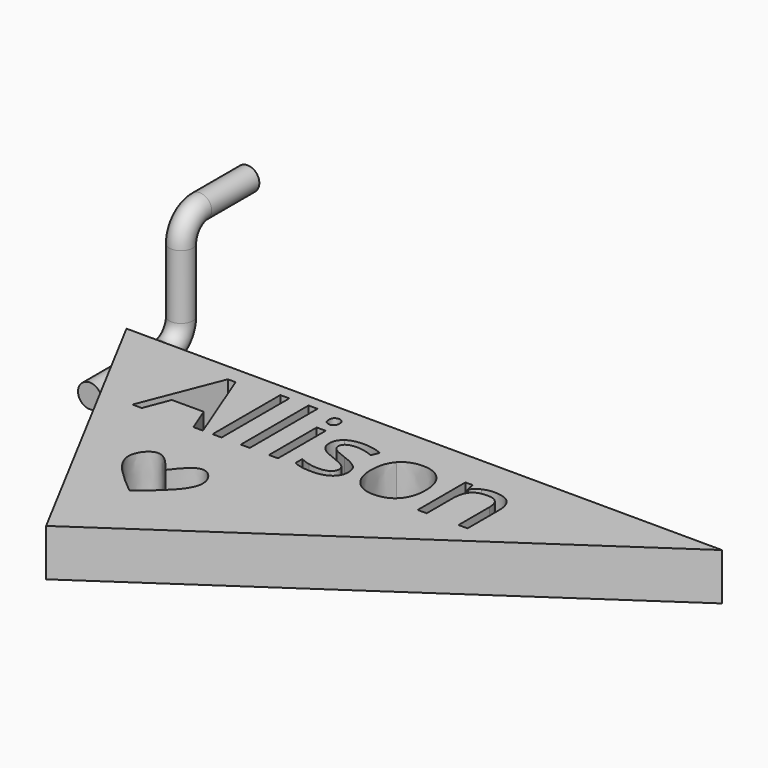
from build123d import *

# Parameters (mm, degrees)
F1_R     = 6.379673691
F3_W     = 4.8832285095
F3_H     = 45.7555688669
F3_H_2   = 32.2255445958
F4_DEPTH = 25.4
F6_DEPTH = 25.4


with BuildPart() as f2:
    # F2: sweep along a path in F0
    with BuildLine(Plane.YZ) as f2_path:
        Line((0, 0), (48.8668594837, 0))
        ThreePointArc((48.8668594837, 0), (57.8471156048, 3.7197438789), (61.5668594837, 12.7))
        Line((61.5668594837, 12.7), (61.5668594837, 47.304409945))
        ThreePointArc((61.5668594837, 47.304409945), (65.2866033626, 56.2846660661), (74.2668594837, 60.004409945))
        Line((74.2668594837, 60.004409945), (106.4591375947, 60.004409945))
    # F1 (on Front) → F2 (sweep)
    with BuildSketch(Plane.XZ):
        Circle(F1_R)
    sweep(path=f2_path.line)

    # F3 (on Top) → F4 (join)
    with BuildSketch(Plane.XY):
        Polygon((326.6327083111, 18.4751711786), (4.1886316997, 19.5212387724), (90.2807963532, -142.4016799862), align=None)
        Polygon((87.5756415589, -33.0956764519), (82.4007365874, -33.0956764519), (77.0470621713, -19.4245184088), (59.819333075, -19.4245184088), (54.5315210859, -33.0956764519), (49.4695231318, -33.0956764519), (66.4620292749, 10.0724399292), (70.6678156791, 10.0724399292), align=None, mode=Mode.SUBTRACT)
        with Locations((95.1921607853, -10.2178920185)):
            Rectangle(F3_W, F3_H, mode=Mode.SUBTRACT)
        with Locations((110.425199238, -10.2178920185)):
            Rectangle(F3_W, F3_H, mode=Mode.SUBTRACT)
        with Locations((125.6582376907, -16.982904154)):
            Rectangle(F3_W, F3_H_2, mode=Mode.SUBTRACT)
        with BuildLine():
            add(Edge.make_bspline(
                [(157.2204535583, -18.9822992567), (159.2339620381, -21.099305836), (159.2339620381, -24.3077469184)],
                knots=[0, 0, 0, 1, 1, 1], degree=2))
            add(Edge.make_bspline(
                [(159.2339620381, -24.3077469184), (159.2339620381, -28.8052097846), (155.8843871838, -31.2468240393)],
                knots=[0, 0, 0, 1, 1, 1], degree=2))
            add(Edge.make_bspline(
                [(155.8843871838, -31.2468240393), (152.5348123295, -33.6884382941), (146.4754690537, -33.6884382941)],
                knots=[0, 0, 0, 1, 1, 1], degree=2))
            add(Edge.make_bspline(
                [(146.4754690537, -33.6884382941), (140.067995807, -33.6884382941), (136.4831979994, -31.656111978)],
                knots=[0, 0, 0, 1, 1, 1], degree=2))
            Line((136.4831979994, -31.656111978), (136.4831979994, -27.1304223574))
            add(Edge.make_bspline(
                [(136.4831979994, -27.1304223574), (138.8072007776, -28.3065371237), (141.4652201494, -28.97927477)],
                knots=[0, 0, 0, 1, 1, 1], degree=2))
            add(Edge.make_bspline(
                [(141.4652201494, -28.97927477), (144.1232395211, -29.6520124163), (146.5977849894, -29.6520124163)],
                knots=[0, 0, 0, 1, 1, 1], degree=2))
            add(Edge.make_bspline(
                [(146.5977849894, -29.6520124163), (150.4178057502, -29.6520124163), (152.4736543616, -28.4335575184)],
                knots=[0, 0, 0, 1, 1, 1], degree=2))
            add(Edge.make_bspline(
                [(152.4736543616, -28.4335575184), (154.5295029731, -27.2151026206), (154.5295029731, -24.712330398)],
                knots=[0, 0, 0, 1, 1, 1], degree=2))
            add(Edge.make_bspline(
                [(154.5295029731, -24.712330398), (154.5295029731, -22.8305467719), (152.9017601366, -21.4944803975)],
                knots=[0, 0, 0, 1, 1, 1], degree=2))
            add(Edge.make_bspline(
                [(152.9017601366, -21.4944803975), (151.2740173, -20.158414023), (146.5319225624, -18.3330839057)],
                knots=[0, 0, 0, 1, 1, 1], degree=2))
            add(Edge.make_bspline(
                [(146.5319225624, -18.3330839057), (142.0344596962, -16.6582964786), (140.138562693, -15.4069103672)],
                knots=[0, 0, 0, 1, 1, 1], degree=2))
            add(Edge.make_bspline(
                [(140.138562693, -15.4069103672), (138.2426656898, -14.1555242559), (137.315887254, -12.570121551)],
                knots=[0, 0, 0, 1, 1, 1], degree=2))
            add(Edge.make_bspline(
                [(137.315887254, -12.570121551), (136.3891088181, -10.9847188461), (136.3891088181, -8.7830320036)],
                knots=[0, 0, 0, 1, 1, 1], degree=2))
            add(Edge.make_bspline(
                [(136.3891088181, -8.7830320036), (136.3891088181, -4.8406953071), (139.5975499005, -2.5590326605)],
                knots=[0, 0, 0, 1, 1, 1], degree=2))
            add(Edge.make_bspline(
                [(139.5975499005, -2.5590326605), (142.8059909829, -0.277370014), (148.3854794341, -0.277370014)],
                knots=[0, 0, 0, 1, 1, 1], degree=2))
            add(Edge.make_bspline(
                [(148.3854794341, -0.277370014), (153.5886111601, -0.277370014), (158.5659288509, -2.3943765933)],
                knots=[0, 0, 0, 1, 1, 1], degree=2))
            Line((158.5659288509, -2.3943765933), (156.8252789968, -6.3649400442))
            add(Edge.make_bspline(
                [(156.8252789968, -6.3649400442), (151.9796861598, -4.3702494006), (148.0373494633, -4.3702494006)],
                knots=[0, 0, 0, 1, 1, 1], degree=2))
            add(Edge.make_bspline(
                [(148.0373494633, -4.3702494006), (144.5654586732, -4.3702494006), (142.8012865238, -5.4569794446)],
                knots=[0, 0, 0, 1, 1, 1], degree=2))
            add(Edge.make_bspline(
                [(142.8012865238, -5.4569794446), (141.0371143744, -6.5437094886), (141.0371143744, -8.4537198691)],
                knots=[0, 0, 0, 1, 1, 1], degree=2))
            add(Edge.make_bspline(
                [(141.0371143744, -8.4537198691), (141.0371143744, -9.752150571), (141.7004431026, -10.6601111706)],
                knots=[0, 0, 0, 1, 1, 1], degree=2))
            add(Edge.make_bspline(
                [(141.7004431026, -10.6601111706), (142.3637718308, -11.5680717701), (143.8315630591, -12.3913521065)],
                knots=[0, 0, 0, 1, 1, 1], degree=2))
            add(Edge.make_bspline(
                [(143.8315630591, -12.3913521065), (145.2993542874, -13.2146324429), (149.4769139372, -14.7765128525)],
                knots=[0, 0, 0, 1, 1, 1], degree=2))
            add(Edge.make_bspline(
                [(149.4769139372, -14.7765128525), (155.2069450784, -16.8652926774), (157.2204535583, -18.9822992567)],
                knots=[0, 0, 0, 1, 1, 1], degree=2))
        make_face(mode=Mode.SUBTRACT)
        with BuildLine():
            add(Edge.make_bspline(
                [(123.6259113746, 5.4056165366), (122.8026310382, 6.2147834958), (122.8026310382, 7.8613441686)],
                knots=[0, 0, 0, 1, 1, 1], degree=2))
            add(Edge.make_bspline(
                [(122.8026310382, 7.8613441686), (122.8026310382, 9.5361315958), (123.6259113746, 10.3170718006)],
                knots=[0, 0, 0, 1, 1, 1], degree=2))
            add(Edge.make_bspline(
                [(123.6259113746, 10.3170718006), (124.449191711, 11.0980120054), (125.6911689042, 11.0980120054)],
                knots=[0, 0, 0, 1, 1, 1], degree=2))
            add(Edge.make_bspline(
                [(125.6911689042, 11.0980120054), (126.8672836704, 11.0980120054), (127.7187907612, 10.3029584234)],
                knots=[0, 0, 0, 1, 1, 1], degree=2))
            add(Edge.make_bspline(
                [(127.7187907612, 10.3029584234), (128.570297852, 9.5079048414), (128.570297852, 7.8613441686)],
                knots=[0, 0, 0, 1, 1, 1], degree=2))
            add(Edge.make_bspline(
                [(128.570297852, 7.8613441686), (128.570297852, 6.2147834958), (127.7187907612, 5.4056165366)],
                knots=[0, 0, 0, 1, 1, 1], degree=2))
            add(Edge.make_bspline(
                [(127.7187907612, 5.4056165366), (126.8672836704, 4.5964495774), (125.6911689042, 4.5964495774)],
                knots=[0, 0, 0, 1, 1, 1], degree=2))
            add(Edge.make_bspline(
                [(125.6911689042, 4.5964495774), (124.449191711, 4.5964495774), (123.6259113746, 5.4056165366)],
                knots=[0, 0, 0, 1, 1, 1], degree=2))
        make_face(mode=Mode.SUBTRACT)
        with BuildLine():
            add(Edge.make_bspline(
                [(191.0031741046, -4.7795373392), (194.9878509327, -9.2817046645), (194.9878509327, -16.9499729406)],
                knots=[0, 0, 0, 1, 1, 1], degree=2))
            add(Edge.make_bspline(
                [(194.9878509327, -16.9499729406), (194.9878509327, -24.8346463337), (191.0219919408, -29.2615423139)],
                knots=[0, 0, 0, 1, 1, 1], degree=2))
            add(Edge.make_bspline(
                [(191.0219919408, -29.2615423139), (187.056132949, -33.6884382941), (180.0558978602, -33.6884382941)],
                knots=[0, 0, 0, 1, 1, 1], degree=2))
            add(Edge.make_bspline(
                [(180.0558978602, -33.6884382941), (175.7277955203, -33.6884382941), (172.378220666, -31.656111978)],
                knots=[0, 0, 0, 1, 1, 1], degree=2))
            add(Edge.make_bspline(
                [(172.378220666, -31.656111978), (169.0286458116, -29.6237856619), (167.2033156944, -25.8319916554)],
                knots=[0, 0, 0, 1, 1, 1], degree=2))
            add(Edge.make_bspline(
                [(167.2033156944, -25.8319916554), (165.3779855771, -22.040197649), (165.3779855771, -16.9499729406)],
                knots=[0, 0, 0, 1, 1, 1], degree=2))
            add(Edge.make_bspline(
                [(165.3779855771, -16.9499729406), (165.3779855771, -9.0747084657), (169.3203222737, -4.6760392398)],
                knots=[0, 0, 0, 1, 1, 1], degree=2))
            add(Edge.make_bspline(
                [(169.3203222737, -4.6760392398), (173.2626589702, -0.277370014), (180.262894059, -0.277370014)],
                knots=[0, 0, 0, 1, 1, 1], degree=2))
            add(Edge.make_bspline(
                [(180.262894059, -0.277370014), (187.0184972765, -0.277370014), (191.0031741046, -4.7795373392)],
                knots=[0, 0, 0, 1, 1, 1], degree=2))
        make_face(mode=Mode.SUBTRACT)
        with BuildLine():
            Line((230.4876990377, -33.0956764519), (225.6044705282, -33.0956764519))
            Line((225.6044705282, -33.0956764519), (225.6044705282, -12.2455138755))
            add(Edge.make_bspline(
                [(225.6044705282, -12.2455138755), (225.6044705282, -8.3125860971), (223.8120716244, -6.3696445032)],
                knots=[0, 0, 0, 1, 1, 1], degree=2))
            add(Edge.make_bspline(
                [(223.8120716244, -6.3696445032), (222.0196727206, -4.4267029094), (218.1902430416, -4.4267029094)],
                knots=[0, 0, 0, 1, 1, 1], degree=2))
            add(Edge.make_bspline(
                [(218.1902430416, -4.4267029094), (213.1376540058, -4.4267029094), (210.7854244732, -7.1599936262)],
                knots=[0, 0, 0, 1, 1, 1], degree=2))
            add(Edge.make_bspline(
                [(210.7854244732, -7.1599936262), (208.4331949407, -9.893284343), (208.4331949407, -16.187850572)],
                knots=[0, 0, 0, 1, 1, 1], degree=2))
            Line((208.4331949407, -16.187850572), (208.4331949407, -33.0956764519))
            Line((208.4331949407, -33.0956764519), (203.5499664311, -33.0956764519))
            Line((203.5499664311, -33.0956764519), (203.5499664311, -0.8701318562))
            Line((203.5499664311, -0.8701318562), (207.5205298821, -0.8701318562))
            Line((207.5205298821, -0.8701318562), (208.310879005, -5.2829144592))
            Line((208.310879005, -5.2829144592), (208.5461019582, -5.2829144592))
            add(Edge.make_bspline(
                [(208.5461019582, -5.2829144592), (210.0515288591, -2.9024581723), (212.7565928215, -1.5899140931)],
                knots=[0, 0, 0, 1, 1, 1], degree=2))
            add(Edge.make_bspline(
                [(212.7565928215, -1.5899140931), (215.4616567839, -0.277370014), (218.7830048838, -0.277370014)],
                knots=[0, 0, 0, 1, 1, 1], degree=2))
            add(Edge.make_bspline(
                [(218.7830048838, -0.277370014), (224.6071252064, -0.277370014), (227.5474121221, -3.0859320758)],
                knots=[0, 0, 0, 1, 1, 1], degree=2))
            add(Edge.make_bspline(
                [(227.5474121221, -3.0859320758), (230.4876990377, -5.8944941377), (230.4876990377, -12.0761533492)],
                knots=[0, 0, 0, 1, 1, 1], degree=2))
            Line((230.4876990377, -12.0761533492), (230.4876990377, -33.0956764519))
        make_face(mode=Mode.SUBTRACT)
    extrude(amount=F4_DEPTH)

    # F5 (on face) → F6 (cut)
    with BuildSketch(Plane.XY.offset(25.4)):
        with BuildLine():
            add(Edge.make_bspline(
                [(97.6337750401, -70.9894448519), (101.7547711877, -65.7406254256), (109.5285345779, -55.8393591211), (123.9027278105, -73.6053108216), (107.611078169, -87.0535187852), (97.6337750401, -95.2894464135)],
                knots=[0, 0, 0, 0, 0.3042335189, 0.5738999278, 1, 1, 1, 1], degree=3))
            add(Edge.make_bspline(
                [(97.6337750401, -70.9894448519), (93.5127788924, -65.7406254256), (85.7390155022, -55.8393591211), (71.3648222696, -73.6053108216), (87.6564719111, -87.0535187852), (97.6337750401, -95.2894464135)],
                knots=[0, 0, 0, 0, 0.3042335189, 0.5738999278, 1, 1, 1, 1], degree=3))
        make_face()
    extrude(amount=-F6_DEPTH, mode=Mode.SUBTRACT)


solid = f2.part
